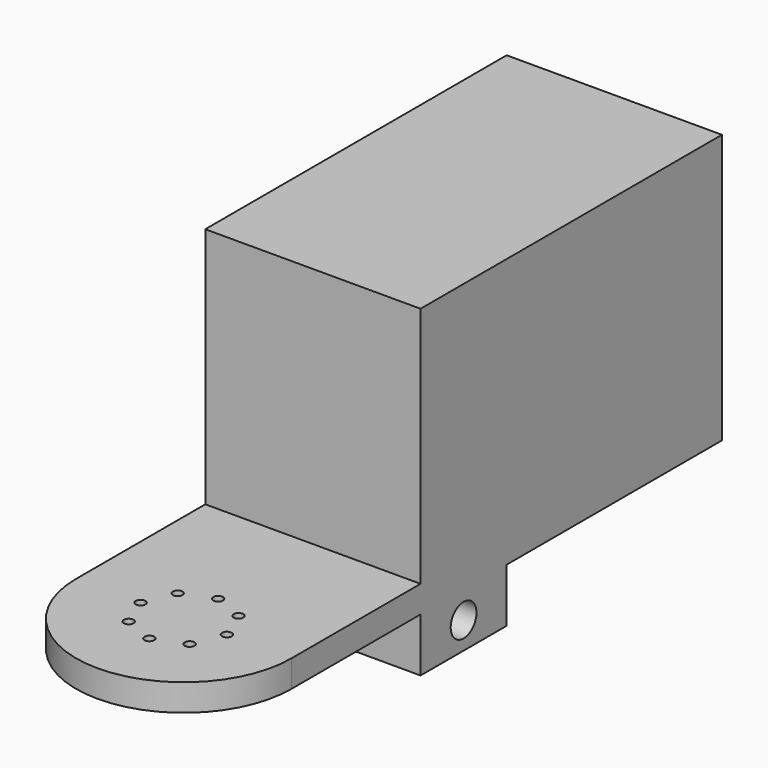
from build123d import *

# Parameters (mm, degrees)
SKETCH_W        = 29
SKETCH_H        = 47
PAD_DEPTH       = 40
SKETCH001_R     = 9.75
PAD001_DEPTH    = 10
SKETCH002_W     = 56
SKETCH002_H     = 6
POCKET_DEPTH    = 100
POCKET001_DEPTH = 5
SKETCH005_R     = 0.9
POCKET002_DEPTH = 5
SKETCH006_W     = 40
SKETCH006_H     = 20
PAD002_DEPTH    = 10
SKETCH007_R     = 3
HOLE_DEPTH      = 50
SKETCH008_W     = 40
SKETCH008_H     = 45
POCKET003_DEPTH = 68.991653
SKETCH009_W     = 40
SKETCH009_H     = 5
PAD003_DEPTH    = 50
SKETCH010_W     = 40
SKETCH010_H     = 70
PAD004_DEPTH    = 45


with BuildPart() as part:
    # Sketch → Pad (new body)
    with BuildSketch(Plane.XY.offset(10)):
        with BuildLine():
            Line((0, 0), (40, 0))
            Line((40, 0), (40, 60))
            ThreePointArc((40, 60), (20, 68.990653), (0, 60))
            Line((0, 60), (0, 0))
        make_face()
        with Locations((20, 30)):
            Rectangle(SKETCH_W, SKETCH_H, mode=Mode.SUBTRACT)
    extrude(amount=PAD_DEPTH)

    # Sketch001 (on Face9 of Pad) → Pad001 (join)
    with BuildSketch(Plane(origin=(0, 0, 10), x_dir=(1, 0, 0), z_dir=(0, 0, -1))):
        with BuildLine():
            Line((40, -60), (40, 30))
            ThreePointArc((40, 30), (20, 50), (0, 30))
            Line((0, 30), (0, -60))
            ThreePointArc((0, -60), (20, -68.990653), (40, -60))
        make_face()
        with Locations((20, -42.25)):
            Circle(SKETCH001_R, mode=Mode.SUBTRACT)
    extrude(amount=PAD001_DEPTH)

    # Sketch002 (on Face7 of Pad001) → Pocket (cut)
    with BuildSketch(Plane(origin=(0, 0, 0), x_dir=(0, -1, 0), z_dir=(-1, 0, 0))):
        with Locations((-48, 3)):
            Rectangle(SKETCH002_W, SKETCH002_H)
    extrude(amount=-POCKET_DEPTH, mode=Mode.SUBTRACT)

    # Sketch003 (on Face4 of Pocket) → Pocket001 (cut)
    with BuildSketch(Plane.XY.offset(10)):
        with BuildLine():
            Line((0, 0), (40, 0))
            Line((40, 0), (40, -30))
            ThreePointArc((0, -30), (20, -50), (40, -30))
            Line((0, -30), (0, 0))
        make_face()
    extrude(amount=-POCKET001_DEPTH, mode=Mode.SUBTRACT)

    # Sketch005 → Pocket002 (cut)
    with BuildSketch(Plane(origin=(0, 0, 0), x_dir=(1, 0, 0), z_dir=(0, 0, -1))):
        with Locations((11.98, 30)):
            Circle(SKETCH005_R)
        with Locations((14.34, 35.7)):
            Circle(SKETCH005_R)
        with Locations((20, 37.98)):
            Circle(SKETCH005_R)
        with Locations((25.66, 35.7)):
            Circle(SKETCH005_R)
        with Locations((28.02, 30)):
            Circle(SKETCH005_R)
        with Locations((25.66, 24.35)):
            Circle(SKETCH005_R)
        with Locations((20, 22.02)):
            Circle(SKETCH005_R)
        with Locations((14.34, 24.34)):
            Circle(SKETCH005_R)
    extrude(amount=-POCKET002_DEPTH, mode=Mode.SUBTRACT)

    # Sketch006 (on Face17 of Pocket002) → Pad002 (join)
    with BuildSketch(Plane(origin=(0, 0, 0), x_dir=(1, 0, 0), z_dir=(0, 0, -1))):
        with Locations((20, -10)):
            Rectangle(SKETCH006_W, SKETCH006_H)
    extrude(amount=PAD002_DEPTH)

    # Sketch007 → Hole (cut)
    with BuildSketch(Plane.YZ.offset(40)):
        with Locations((10, -5)):
            Circle(SKETCH007_R)
    extrude(amount=-HOLE_DEPTH, mode=Mode.SUBTRACT)

    # Sketch008 (on Face1 of Hole) → Pocket003 (cut, through all)
    with BuildSketch(Plane.XZ):
        with Locations((20, 27.5)):
            Rectangle(SKETCH008_W, SKETCH008_H)
    extrude(amount=-POCKET003_DEPTH, mode=Mode.SUBTRACT)

    # Sketch009 (on Face14 of Pocket003) → Pad003 (join)
    with BuildSketch(Plane(origin=(0, 20, 0), x_dir=(-1, 0, 0), z_dir=(0, 1, 0))):
        with Locations((-20, 2.5)):
            Rectangle(SKETCH009_W, SKETCH009_H)
    extrude(amount=PAD003_DEPTH)

    # Sketch010 (on Face2 of Pad003) → Pad004 (join)
    with BuildSketch(Plane.XY.offset(5)):
        with Locations((20, 35)):
            Rectangle(SKETCH010_W, SKETCH010_H)
    extrude(amount=PAD004_DEPTH)


solid = part.part
